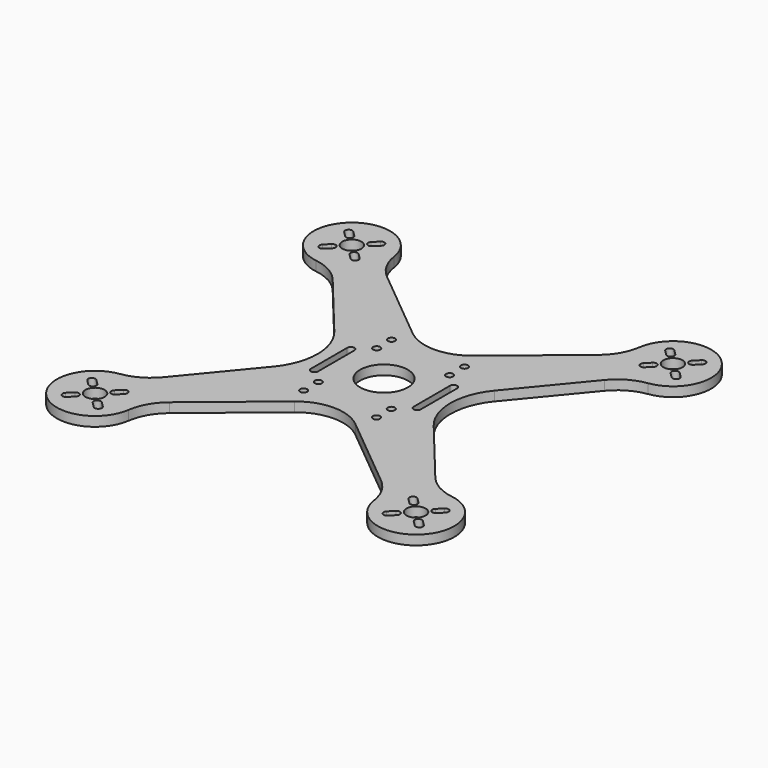
from build123d import *

# Parameters (mm, degrees)
F0_R     = 4
F0_R_2   = 1.5
F0_R_3   = 10
F1_DEPTH = 4


with BuildPart() as f1:
    # F0 (on Top) → F1 (new body)
    with BuildSketch(Plane.XY):
        with BuildLine():
            ThreePointArc((-44.266541, 56.889609), (-48.97612, 62.516223), (-51.339514, 69.462681))
            ThreePointArc((-51.339514, 69.462681), (-78.488853, 78.488853), (-69.462681, 51.339514))
            ThreePointArc((-69.462681, 51.339514), (-62.516223, 48.97612), (-56.889609, 44.266541))
            Line((-56.889609, 44.266541), (-33.507649, 15.901956))
            ThreePointArc((-33.507649, 15.901956), (-27.798264, 0), (-33.507649, -15.901956))
            Line((-33.507649, -15.901956), (-56.889609, -44.266541))
            ThreePointArc((-56.889609, -44.266541), (-62.516223, -48.97612), (-69.462681, -51.339514))
            ThreePointArc((-69.462681, -51.339514), (-78.488853, -78.488853), (-51.339514, -69.462681))
            ThreePointArc((-51.339514, -69.462681), (-48.97612, -62.516223), (-44.266541, -56.889609))
            Line((-44.266541, -56.889609), (-12.721564, -30.885937))
            ThreePointArc((-12.721564, -30.885937), (0, -26.318429), (12.721564, -30.885937))
            Line((12.721564, -30.885937), (44.266541, -56.889609))
            ThreePointArc((44.266541, -56.889609), (48.97612, -62.516223), (51.339514, -69.462681))
            ThreePointArc((51.339514, -69.462681), (78.488853, -78.488853), (69.462681, -51.339514))
            ThreePointArc((69.462681, -51.339514), (62.516223, -48.97612), (56.889609, -44.266541))
            Line((56.889609, -44.266541), (33.507649, -15.901956))
            ThreePointArc((33.507649, -15.901956), (27.798264, 0), (33.507649, 15.901956))
            Line((33.507649, 15.901956), (56.889609, 44.266541))
            ThreePointArc((56.889609, 44.266541), (62.516223, 48.97612), (69.462681, 51.339514))
            ThreePointArc((69.462681, 51.339514), (78.488853, 78.488853), (51.339514, 69.462681))
            ThreePointArc((51.339514, 69.462681), (48.97612, 62.516223), (44.266541, 56.889609))
            Line((44.266541, 56.889609), (12.721564, 30.885937))
            ThreePointArc((12.721564, 30.885937), (0, 26.318429), (-12.721564, 30.885937))
            Line((-12.721564, 30.885937), (-44.266541, 56.889609))
        make_face()
        with BuildLine():
            ThreePointArc((-72.831998, -70.710678), (-70.710678, -70.710678), (-70.710678, -72.831998))
            Line((-70.710678, -72.831998), (-72.831998, -74.953319))
            ThreePointArc((-72.831998, -74.953319), (-74.953319, -74.953319), (-74.953319, -72.831998))
            Line((-74.953319, -72.831998), (-72.831998, -70.710678))
        make_face(mode=Mode.SUBTRACT)
        with Locations((-67.175144, -67.175144)):
            Circle(F0_R, mode=Mode.SUBTRACT)
        with BuildLine():
            Line((-61.51829, -74.953319), (-63.63961, -72.831998))
            ThreePointArc((-63.63961, -72.831998), (-63.63961, -70.710678), (-61.51829, -70.710678))
            Line((-61.51829, -70.710678), (-59.39697, -72.831998))
            ThreePointArc((-59.39697, -72.831998), (-59.39697, -74.953319), (-61.51829, -74.953319))
        make_face(mode=Mode.SUBTRACT)
        with BuildLine():
            Line((-72.831998, -59.39697), (-70.710678, -61.51829))
            ThreePointArc((-70.710678, -61.51829), (-70.710678, -63.63961), (-72.831998, -63.63961))
            Line((-72.831998, -63.63961), (-74.953319, -61.51829))
            ThreePointArc((-74.953319, -61.51829), (-74.953319, -59.39697), (-72.831998, -59.39697))
        make_face(mode=Mode.SUBTRACT)
        with BuildLine():
            Line((-59.39697, -61.51829), (-61.51829, -63.63961))
            ThreePointArc((-61.51829, -63.63961), (-63.63961, -63.63961), (-63.63961, -61.51829))
            Line((-63.63961, -61.51829), (-61.51829, -59.39697))
            ThreePointArc((-61.51829, -59.39697), (-59.39697, -59.39697), (-59.39697, -61.51829))
        make_face(mode=Mode.SUBTRACT)
        with Locations((-15.25, -23)):
            Circle(F0_R_2, mode=Mode.SUBTRACT)
        with BuildLine():
            Line((-23, -9.5), (-23, 9.5))
            ThreePointArc((-23, 9.5), (-21.5, 11), (-20, 9.5))
            Line((-20, 9.5), (-20, -9.5))
            ThreePointArc((-20, -9.5), (-21.5, -11), (-23, -9.5))
        make_face(mode=Mode.SUBTRACT)
        with Locations((-15.25, -15.25)):
            Circle(F0_R_2, mode=Mode.SUBTRACT)
        with BuildLine():
            Line((59.39697, -72.831998), (61.51829, -70.710678))
            ThreePointArc((61.51829, -70.710678), (63.63961, -70.710678), (63.63961, -72.831998))
            Line((63.63961, -72.831998), (61.51829, -74.953319))
            ThreePointArc((61.51829, -74.953319), (59.39697, -74.953319), (59.39697, -72.831998))
        make_face(mode=Mode.SUBTRACT)
        with BuildLine():
            ThreePointArc((74.953319, -72.831998), (74.953319, -74.953319), (72.831998, -74.953319))
            Line((72.831998, -74.953319), (70.710678, -72.831998))
            ThreePointArc((70.710678, -72.831998), (70.710678, -70.710678), (72.831998, -70.710678))
            Line((72.831998, -70.710678), (74.953319, -72.831998))
        make_face(mode=Mode.SUBTRACT)
        with Locations((67.175144, -67.175144)):
            Circle(F0_R, mode=Mode.SUBTRACT)
        with BuildLine():
            ThreePointArc((63.63961, -61.51829), (63.63961, -63.63961), (61.51829, -63.63961))
            Line((61.51829, -63.63961), (59.39697, -61.51829))
            ThreePointArc((59.39697, -61.51829), (59.39697, -59.39697), (61.51829, -59.39697))
            Line((61.51829, -59.39697), (63.63961, -61.51829))
        make_face(mode=Mode.SUBTRACT)
        with BuildLine():
            ThreePointArc((72.831998, -63.63961), (70.710678, -63.63961), (70.710678, -61.51829))
            Line((70.710678, -61.51829), (72.831998, -59.39697))
            ThreePointArc((72.831998, -59.39697), (74.953319, -59.39697), (74.953319, -61.51829))
            Line((74.953319, -61.51829), (72.831998, -63.63961))
        make_face(mode=Mode.SUBTRACT)
        with Locations((15.25, -23)):
            Circle(F0_R_2, mode=Mode.SUBTRACT)
        with Locations((15.25, -15.25)):
            Circle(F0_R_2, mode=Mode.SUBTRACT)
        Circle(F0_R_3, mode=Mode.SUBTRACT)
        with BuildLine():
            ThreePointArc((20, 9.5), (21.5, 11), (23, 9.5))
            Line((23, 9.5), (23, -9.5))
            ThreePointArc((23, -9.5), (21.5, -11), (20, -9.5))
            Line((20, -9.5), (20, 9.5))
        make_face(mode=Mode.SUBTRACT)
        with Locations((-15.25, 15.25)):
            Circle(F0_R_2, mode=Mode.SUBTRACT)
        with Locations((-15.25, 23)):
            Circle(F0_R_2, mode=Mode.SUBTRACT)
        with BuildLine():
            ThreePointArc((-72.831998, 63.63961), (-70.710678, 63.63961), (-70.710678, 61.51829))
            Line((-70.710678, 61.51829), (-72.831998, 59.39697))
            ThreePointArc((-72.831998, 59.39697), (-74.953319, 59.39697), (-74.953319, 61.51829))
            Line((-74.953319, 61.51829), (-72.831998, 63.63961))
        make_face(mode=Mode.SUBTRACT)
        with BuildLine():
            ThreePointArc((-63.63961, 61.51829), (-63.63961, 63.63961), (-61.51829, 63.63961))
            Line((-61.51829, 63.63961), (-59.39697, 61.51829))
            ThreePointArc((-59.39697, 61.51829), (-59.39697, 59.39697), (-61.51829, 59.39697))
            Line((-61.51829, 59.39697), (-63.63961, 61.51829))
        make_face(mode=Mode.SUBTRACT)
        with Locations((-67.175144, 67.175144)):
            Circle(F0_R, mode=Mode.SUBTRACT)
        with BuildLine():
            ThreePointArc((-70.710678, 72.831998), (-70.710678, 70.710678), (-72.831998, 70.710678))
            Line((-72.831998, 70.710678), (-74.953319, 72.831998))
            ThreePointArc((-74.953319, 72.831998), (-74.953319, 74.953319), (-72.831998, 74.953319))
            Line((-72.831998, 74.953319), (-70.710678, 72.831998))
        make_face(mode=Mode.SUBTRACT)
        with BuildLine():
            ThreePointArc((-61.51829, 70.710678), (-63.63961, 70.710678), (-63.63961, 72.831998))
            Line((-63.63961, 72.831998), (-61.51829, 74.953319))
            ThreePointArc((-61.51829, 74.953319), (-59.39697, 74.953319), (-59.39697, 72.831998))
            Line((-59.39697, 72.831998), (-61.51829, 70.710678))
        make_face(mode=Mode.SUBTRACT)
        with Locations((15.25, 15.25)):
            Circle(F0_R_2, mode=Mode.SUBTRACT)
        with Locations((15.25, 23)):
            Circle(F0_R_2, mode=Mode.SUBTRACT)
        with BuildLine():
            Line((59.39697, 61.51829), (61.51829, 63.63961))
            ThreePointArc((61.51829, 63.63961), (63.63961, 63.63961), (63.63961, 61.51829))
            Line((63.63961, 61.51829), (61.51829, 59.39697))
            ThreePointArc((61.51829, 59.39697), (59.39697, 59.39697), (59.39697, 61.51829))
        make_face(mode=Mode.SUBTRACT)
        with BuildLine():
            Line((72.831998, 59.39697), (70.710678, 61.51829))
            ThreePointArc((70.710678, 61.51829), (70.710678, 63.63961), (72.831998, 63.63961))
            Line((72.831998, 63.63961), (74.953319, 61.51829))
            ThreePointArc((74.953319, 61.51829), (74.953319, 59.39697), (72.831998, 59.39697))
        make_face(mode=Mode.SUBTRACT)
        with BuildLine():
            Line((61.51829, 74.953319), (63.63961, 72.831998))
            ThreePointArc((63.63961, 72.831998), (63.63961, 70.710678), (61.51829, 70.710678))
            Line((61.51829, 70.710678), (59.39697, 72.831998))
            ThreePointArc((59.39697, 72.831998), (59.39697, 74.953319), (61.51829, 74.953319))
        make_face(mode=Mode.SUBTRACT)
        with Locations((67.175144, 67.175144)):
            Circle(F0_R, mode=Mode.SUBTRACT)
        with BuildLine():
            Line((74.953319, 72.831998), (72.831998, 70.710678))
            ThreePointArc((72.831998, 70.710678), (70.710678, 70.710678), (70.710678, 72.831998))
            Line((70.710678, 72.831998), (72.831998, 74.953319))
            ThreePointArc((72.831998, 74.953319), (74.953319, 74.953319), (74.953319, 72.831998))
        make_face(mode=Mode.SUBTRACT)
    extrude(amount=F1_DEPTH)


solid = f1.part
